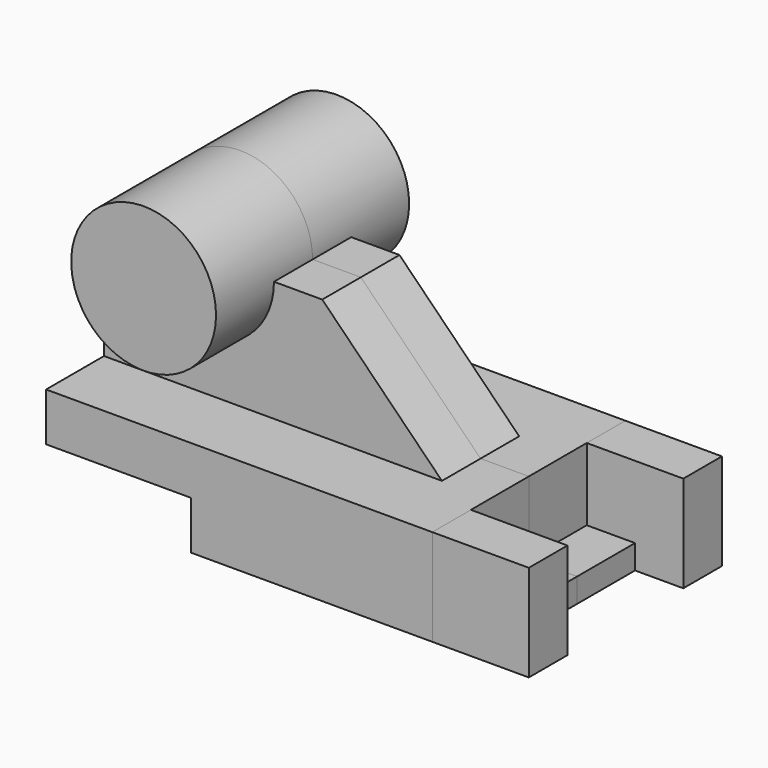
from build123d import *

# Parameters (mm, degrees)
F1_DEPTH = 25
F2_DEPTH = 25
F3_DEPTH = 10
F4_DEPTH = 10
F7_DEPTH = 20
F5_W     = 15
F5_H     = 5
F8_DEPTH = 10
F6_W     = 15
F6_H     = 5


with BuildPart() as f1:
    # F0 (on Front) → F1 (new body)
    with BuildSketch(Plane.XZ):
        with BuildLine():
            ThreePointArc((-54.50950411, 66.2596747279), (-39.50950411, 51.2596747279), (-24.50950411, 66.2596747279))
            ThreePointArc((-24.50950411, 66.2596747279), (-39.50950411, 81.2596747279), (-54.50950411, 66.2596747279))
        make_face()
    extrude(amount=F1_DEPTH)


with BuildPart() as f1b:
    # F0 (on Front) → F1, piece 2 (new body)
    with BuildSketch(Plane.XZ):
        Polygon((-29.7151772691, 21.2596747279), (20.2848227309, 21.2596747279), (20.2848227309, 41.2596747279), (10.2848227309, 41.2596747279), (-59.7151772691, 41.2596747279), (-59.7151772691, 31.2596747279), (-29.7151772691, 31.2596747279), align=None)
    extrude(amount=F1_DEPTH)


with BuildPart() as f2:
    # F2 (new): a face of the model
    f2_faces = [f1.part.faces().sort_by_distance(p)[0] for p in [
        (-39.50950411, 0, 66.2596747279),
    ]]
    extrude(f2_faces, amount=F2_DEPTH)


with BuildPart() as f2b:
    # F2#2 (new): a face of the model
    f2_2_faces = [f1b.part.faces().sort_by_distance(p)[0] for p in [
        (-13.9459464999, 0, 32.4135208818),
    ]]
    extrude(f2_2_faces, amount=F2_DEPTH)


with BuildPart() as f3:
    # F0 (on Front) → F3 (new body)
    with BuildSketch(Plane.XZ):
        with BuildLine():
            Line((-59.7151772691, 41.2596747279), (10.2848227309, 41.2596747279))
            Line((10.2848227309, 41.2596747279), (-14.50950411, 66.2596747279))
            Line((-14.50950411, 66.2596747279), (-24.50950411, 66.2596747279))
            ThreePointArc((-24.50950411, 66.2596747279), (-39.50950411, 51.2596747279), (-54.50950411, 66.2596747279))
            Line((-54.50950411, 66.2596747279), (-59.7151772691, 66.2596747279))
            Line((-59.7151772691, 66.2596747279), (-59.7151772691, 41.2596747279))
        make_face()
    extrude(amount=F3_DEPTH)


with BuildPart() as f4:
    # F0 (on Front) → F4 (new body)
    with BuildSketch(Plane.XZ):
        with BuildLine():
            Line((-59.7151772691, 41.2596747279), (10.2848227309, 41.2596747279))
            Line((10.2848227309, 41.2596747279), (-14.50950411, 66.2596747279))
            Line((-14.50950411, 66.2596747279), (-24.50950411, 66.2596747279))
            ThreePointArc((-24.50950411, 66.2596747279), (-39.50950411, 51.2596747279), (-54.50950411, 66.2596747279))
            Line((-54.50950411, 66.2596747279), (-59.7151772691, 66.2596747279))
            Line((-59.7151772691, 66.2596747279), (-59.7151772691, 41.2596747279))
        make_face()
    extrude(amount=-F4_DEPTH)


with BuildPart() as f7:
    # F5 (on face) → F7 (new body)
    with BuildSketch(Plane.YZ.offset(20.2848227309)):
        Polygon((-15, 26.2596747279), (-15, 41.2596747279), (-25, 41.2596747279), (-25, 21.2596747279), (-15, 21.2596747279), align=None)
    extrude(amount=F7_DEPTH)


with BuildPart() as f7b:
    # F6 (on face) → F7, piece 2 (new body)
    with BuildSketch(Plane.YZ.offset(20.2848227309)):
        Polygon((25, 41.2596747279), (15, 41.2596747279), (15, 26.2596747279), (15, 21.2596747279), (25, 21.2596747279), align=None)
    extrude(amount=F7_DEPTH)


with BuildPart() as f8:
    # F5 (on face) → F8 (new body)
    with BuildSketch(Plane.YZ.offset(20.2848227309)):
        with Locations((-7.5, 23.7596747279)):
            Rectangle(F5_W, F5_H)
    extrude(amount=F8_DEPTH)


with BuildPart() as f8b:
    # F6 (on face) → F8, piece 2 (new body)
    with BuildSketch(Plane.YZ.offset(20.2848227309)):
        with Locations((7.5, 23.7596747279)):
            Rectangle(F6_W, F6_H)
    extrude(amount=F8_DEPTH)


solid = Compound([f1.part, f1b.part, f2.part, f2b.part, f3.part, f4.part, f7.part, f7b.part, f8.part, f8b.part])
